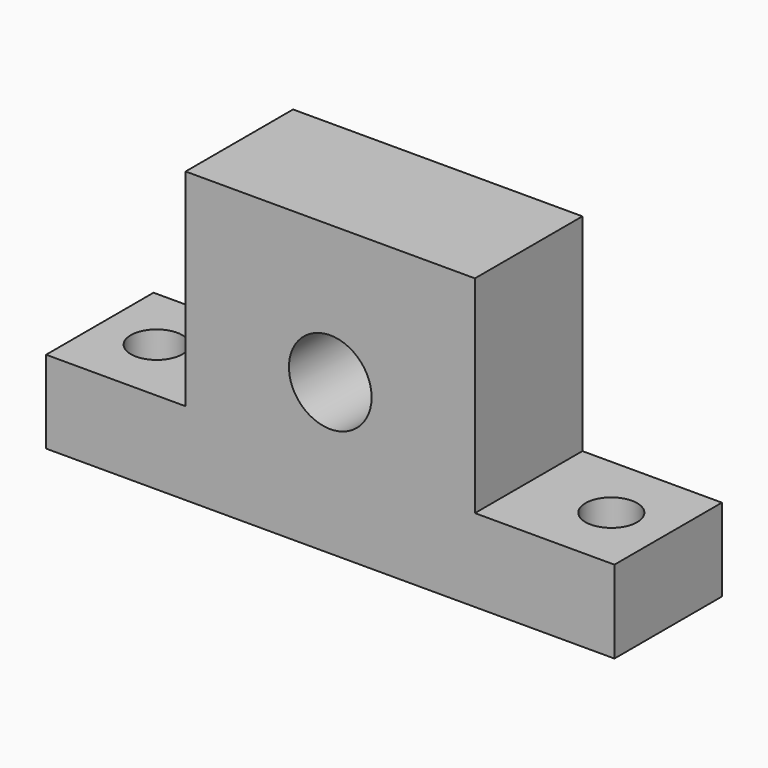
from build123d import *

# Parameters (mm, degrees)
F0_R     = 10.5
F0_R_2   = 4
F1_DEPTH = 6.5
F2_R     = 2.5
F3_DEPTH = 8


with BuildPart() as f1:
    # F0 (on Front) → F1 (new body, symmetric)
    with BuildSketch(Plane.XZ):
        Polygon((-27.5, 0), (0, 0), (27.5, 0), (27.5, 8), (14, 8), (14, 28), (0, 28), (-14, 28), (-14, 8), (-27.5, 8), align=None)
        with Locations((0, 14.6)):
            Circle(F0_R, mode=Mode.SUBTRACT)
        with Locations((0, 14.6)):
            Circle(F0_R)
        with Locations((0, 14.6)):
            Circle(F0_R_2, mode=Mode.SUBTRACT)
    extrude(amount=F1_DEPTH, both=True)

    # F2 (on Top) → F3 (cut, through all)
    with BuildSketch(Plane.XY):
        with Locations((22, 0)):
            Circle(F2_R)
        with Locations((-22, 0)):
            Circle(F2_R)
    extrude(amount=F3_DEPTH, mode=Mode.SUBTRACT)


solid = f1.part
